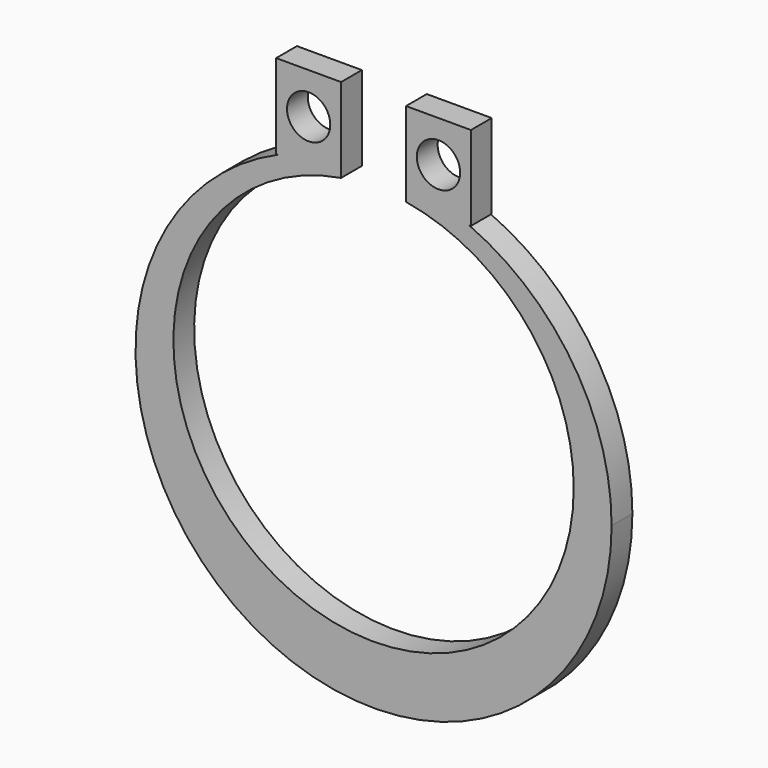
from build123d import *

# Parameters (mm, degrees)
F0_R     = 1
F1_DEPTH = 1.2


with BuildPart() as f1:
    # F0 (on Front) → F1 (new body)
    with BuildSketch(Plane.XZ):
        with BuildLine():
            ThreePointArc((1.5, 9.1275681318), (7.0511523881, 5.9869650074), (9.25, 0))
            ThreePointArc((9.25, 0), (-5.9869650074, -7.0511523881), (-1.5, 9.1275681318))
            Line((-1.5, 9.1275681318), (-4.4093787034, 9.1275681318))
            ThreePointArc((-4.4093787034, 9.1275681318), (-6.0206658379, -10.156062289), (11, -0.95))
            ThreePointArc((11, -0.95), (9.206062289, 5.0706658379), (4.4093787034, 9.1275681318))
            Line((4.4093787034, 9.1275681318), (1.5, 9.1275681318))
        make_face()
        with BuildLine():
            Line((-4.5, 9.1275681318), (-4.4093787034, 9.1275681318))
            ThreePointArc((-4.4093787034, 9.1275681318), (-2.9829779875, 9.6378157486), (-1.5, 9.9472473589))
            Line((-1.5, 9.9472473589), (-1.5, 13.0275681318))
            Line((-1.5, 13.0275681318), (-4.5, 13.0275681318))
            Line((-4.5, 13.0275681318), (-4.5, 9.1275681318))
        make_face()
        with Locations((-3, 11.1275681318)):
            Circle(F0_R, mode=Mode.SUBTRACT)
        with BuildLine():
            Line((-4.4093787034, 9.1275681318), (-1.5, 9.1275681318))
            Line((-1.5, 9.1275681318), (-1.5, 9.9472473589))
            ThreePointArc((-1.5, 9.9472473589), (-2.9829779875, 9.6378157486), (-4.4093787034, 9.1275681318))
        make_face()
        with BuildLine():
            ThreePointArc((1.5, 9.9472473589), (2.9829779875, 9.6378157486), (4.4093787034, 9.1275681318))
            Line((4.4093787034, 9.1275681318), (4.5, 9.1275681318))
            Line((4.5, 9.1275681318), (4.5, 13.0275681318))
            Line((4.5, 13.0275681318), (1.5, 13.0275681318))
            Line((1.5, 13.0275681318), (1.5, 9.9472473589))
        make_face()
        with Locations((3, 11.1275681318)):
            Circle(F0_R, mode=Mode.SUBTRACT)
        with BuildLine():
            Line((1.5, 9.9472473589), (1.5, 9.1275681318))
            Line((1.5, 9.1275681318), (4.4093787034, 9.1275681318))
            ThreePointArc((4.4093787034, 9.1275681318), (2.9829779875, 9.6378157486), (1.5, 9.9472473589))
        make_face()
    extrude(amount=F1_DEPTH)


solid = f1.part
